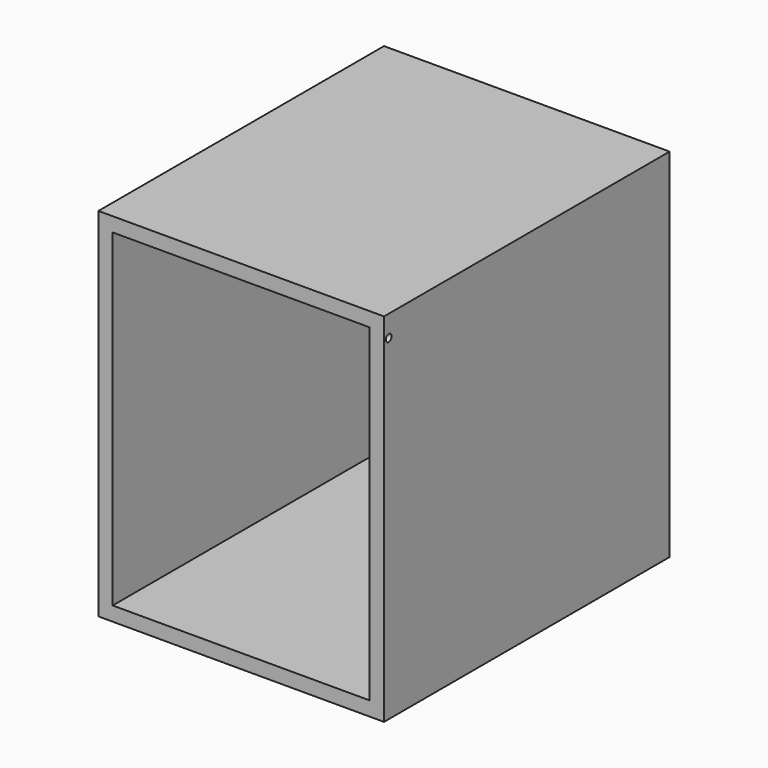
from build123d import *

# Parameters (mm, degrees)
F0_W     = 40
F0_H     = 50
F1_DEPTH = 50
F2_T     = -2
F3_R     = 0.5
F4_DEPTH = 25


with BuildPart() as f1:
    # F0 (on Top) → F1 (new body)
    with BuildSketch(Plane.XY):
        Rectangle(F0_W, F0_H)
    extrude(amount=F1_DEPTH)

    # F2
    f2_openings = [f1.faces().sort_by_distance(p)[0] for p in [
        (0, -25, 25),
    ]]
    offset(amount=F2_T, openings=f2_openings)

    # F3 (on face) → F4 (cut)
    with BuildSketch(Plane(origin=(18, 0, 0), x_dir=(0, -1, 0), z_dir=(-1, 0, 0))):
        with Locations((24.175966, 47.000628)):
            Circle(F3_R)
    extrude(amount=-F4_DEPTH, mode=Mode.SUBTRACT)


solid = f1.part
